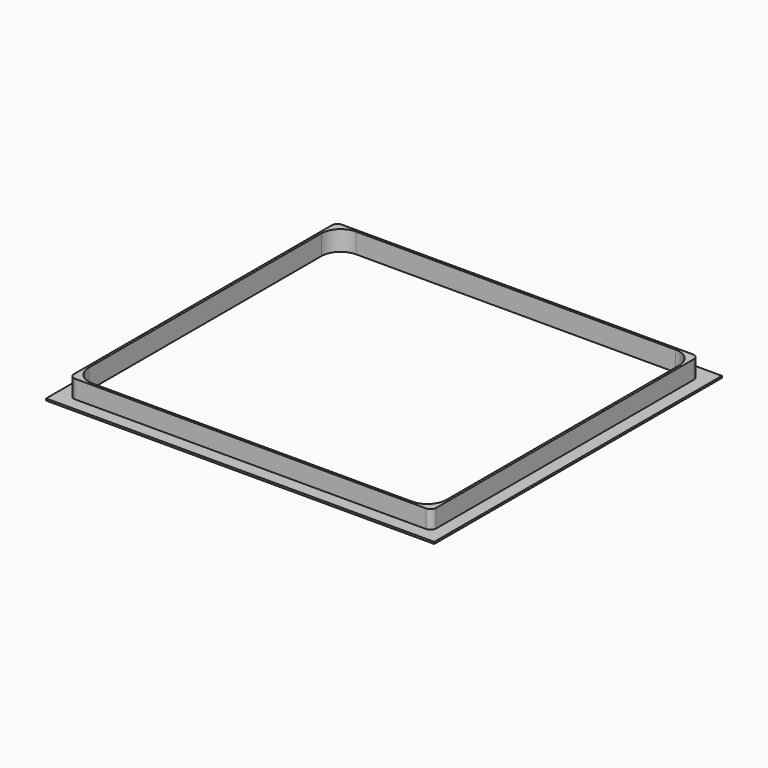
from build123d import *

# Parameters (mm, degrees)
F1_DEPTH = 9.5
F0_W     = 203.6
F0_H     = 188.6
F2_DEPTH = 1


with BuildPart() as f1:
    # F0 (on Top) → F1 (new body)
    with BuildSketch(Plane.XY):
        with BuildLine():
            Line((-92, -87.5), (92, -87.5))
            ThreePointArc((92, -87.5), (94.12132, -86.62132), (95, -84.5))
            Line((95, -84.5), (95, 84.5))
            ThreePointArc((95, 84.5), (94.12132, 86.62132), (92, 87.5))
            Line((92, 87.5), (-92, 87.5))
            ThreePointArc((-92, 87.5), (-94.12132, 86.62132), (-95, 84.5))
            Line((-95, 84.5), (-95, -84.5))
            ThreePointArc((-95, -84.5), (-94.12132, -86.62132), (-92, -87.5))
        make_face()
        with BuildLine():
            ThreePointArc((93.8, -76.3), (90.871068, -83.371068), (83.8, -86.3))
            Line((83.8, -86.3), (-83.8, -86.3))
            ThreePointArc((-83.8, -86.3), (-90.871068, -83.371068), (-93.8, -76.3))
            Line((-93.8, -76.3), (-93.8, 76.3))
            ThreePointArc((-93.8, 76.3), (-90.871068, 83.371068), (-83.8, 86.3))
            Line((-83.8, 86.3), (83.8, 86.3))
            ThreePointArc((83.8, 86.3), (90.871068, 83.371068), (93.8, 76.3))
            Line((93.8, 76.3), (93.8, -76.3))
        make_face(mode=Mode.SUBTRACT)
    extrude(amount=F1_DEPTH)

    # F0 (on Top) → F2 (join)
    with BuildSketch(Plane.XY):
        Rectangle(F0_W, F0_H)
        with BuildLine():
            ThreePointArc((95, -84.5), (94.12132, -86.62132), (92, -87.5))
            Line((92, -87.5), (-92, -87.5))
            ThreePointArc((-92, -87.5), (-94.12132, -86.62132), (-95, -84.5))
            Line((-95, -84.5), (-95, 84.5))
            ThreePointArc((-95, 84.5), (-94.12132, 86.62132), (-92, 87.5))
            Line((-92, 87.5), (92, 87.5))
            ThreePointArc((92, 87.5), (94.12132, 86.62132), (95, 84.5))
            Line((95, 84.5), (95, -84.5))
        make_face(mode=Mode.SUBTRACT)
        with BuildLine():
            Line((-92, -87.5), (92, -87.5))
            ThreePointArc((92, -87.5), (94.12132, -86.62132), (95, -84.5))
            Line((95, -84.5), (95, 84.5))
            ThreePointArc((95, 84.5), (94.12132, 86.62132), (92, 87.5))
            Line((92, 87.5), (-92, 87.5))
            ThreePointArc((-92, 87.5), (-94.12132, 86.62132), (-95, 84.5))
            Line((-95, 84.5), (-95, -84.5))
            ThreePointArc((-95, -84.5), (-94.12132, -86.62132), (-92, -87.5))
        make_face()
        with BuildLine():
            ThreePointArc((93.8, -76.3), (90.871068, -83.371068), (83.8, -86.3))
            Line((83.8, -86.3), (-83.8, -86.3))
            ThreePointArc((-83.8, -86.3), (-90.871068, -83.371068), (-93.8, -76.3))
            Line((-93.8, -76.3), (-93.8, 76.3))
            ThreePointArc((-93.8, 76.3), (-90.871068, 83.371068), (-83.8, 86.3))
            Line((-83.8, 86.3), (83.8, 86.3))
            ThreePointArc((83.8, 86.3), (90.871068, 83.371068), (93.8, 76.3))
            Line((93.8, 76.3), (93.8, -76.3))
        make_face(mode=Mode.SUBTRACT)
    extrude(amount=-F2_DEPTH)


solid = f1.part
